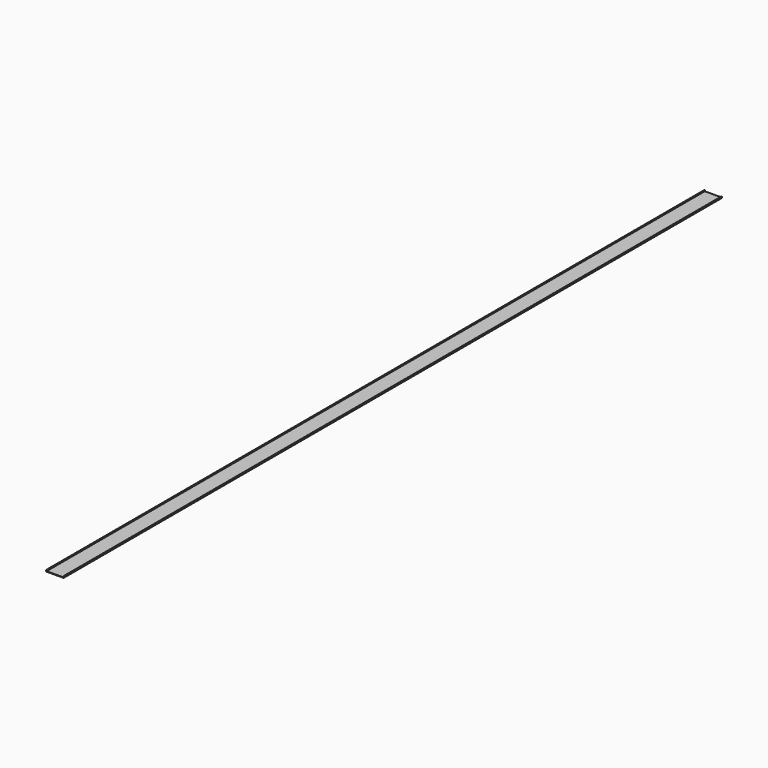
from build123d import *

# Parameters (mm, degrees)
F1_DEPTH = 9550


with BuildPart() as f1:
    # F0 (on Front) → F1 (new body)
    with BuildSketch(Plane.XZ):
        with BuildLine():
            Line((-100, -16), (100, -16))
            ThreePointArc((100, -16), (101.767767, -15.267767), (102.5, -13.5))
            Line((102.5, -13.5), (102.5, 0))
            Line((102.5, 0), (99.5, 0))
            Line((99.5, 0), (99.5, -10.5))
            ThreePointArc((99.5, -10.5), (98.767767, -12.267767), (97, -13))
            Line((97, -13), (-97, -13))
            ThreePointArc((-97, -13), (-98.767767, -12.267767), (-99.5, -10.5))
            Line((-99.5, -10.5), (-99.5, 0))
            Line((-99.5, 0), (-102.5, 0))
            Line((-102.5, 0), (-102.5, -13.5))
            ThreePointArc((-102.5, -13.5), (-101.767767, -15.267767), (-100, -16))
        make_face()
        with BuildLine():
            Line((99.5, -10.5), (99.5, 0))
            Line((99.5, 0), (96.5, 0))
            Line((96.5, 0), (96.5, -7.5))
            ThreePointArc((96.5, -7.5), (95.767767, -9.267767), (94, -10))
            Line((94, -10), (-94, -10))
            ThreePointArc((-94, -10), (-95.767767, -9.267767), (-96.5, -7.5))
            Line((-96.5, -7.5), (-96.5, 0))
            Line((-96.5, 0), (-99.5, 0))
            Line((-99.5, 0), (-99.5, -10.5))
            ThreePointArc((-99.5, -10.5), (-98.767767, -12.267767), (-97, -13))
            Line((-97, -13), (97, -13))
            ThreePointArc((97, -13), (98.767767, -12.267767), (99.5, -10.5))
        make_face()
    extrude(amount=F1_DEPTH)


solid = f1.part
